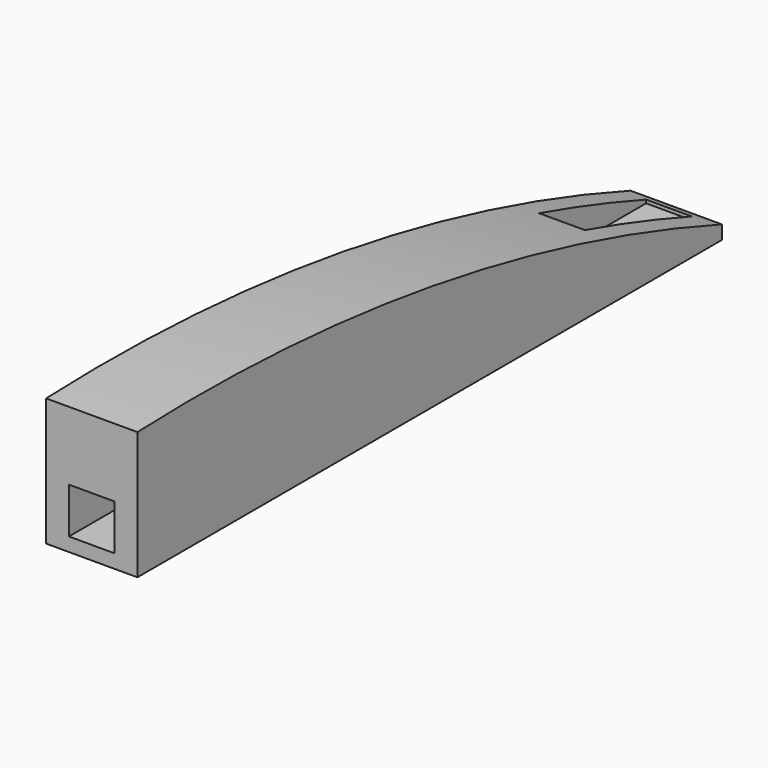
from build123d import *

# Parameters (mm, degrees)
F0_W     = 203.2
F0_H     = 3.81
F1_DEPTH = 25.4
F2_W     = 12.7
F2_H     = 12.7
F3_DEPTH = 200.66


with BuildPart() as f1:
    # F0 (on Right) → F1 (new body)
    with BuildSketch(Plane.YZ):
        with BuildLine():
            Line((-77.323236, 53.81555), (-77.323236, 22.06555))
            Line((-77.323236, 22.06555), (125.876764, 22.06555))
            ThreePointArc((125.876764, 22.06555), (25.815592, 47.789054), (-77.323236, 53.81555))
        make_face()
        with Locations((24.276764, 20.16055)):
            Rectangle(F0_W, F0_H)
    extrude(amount=F1_DEPTH)

    # F2 (on face) → F3 (cut)
    with BuildSketch(Plane.XZ.offset(77.323236)):
        with Locations((12.7, 28.41555)):
            Rectangle(F2_W, F2_H)
    extrude(amount=-F3_DEPTH, mode=Mode.SUBTRACT)


solid = f1.part
